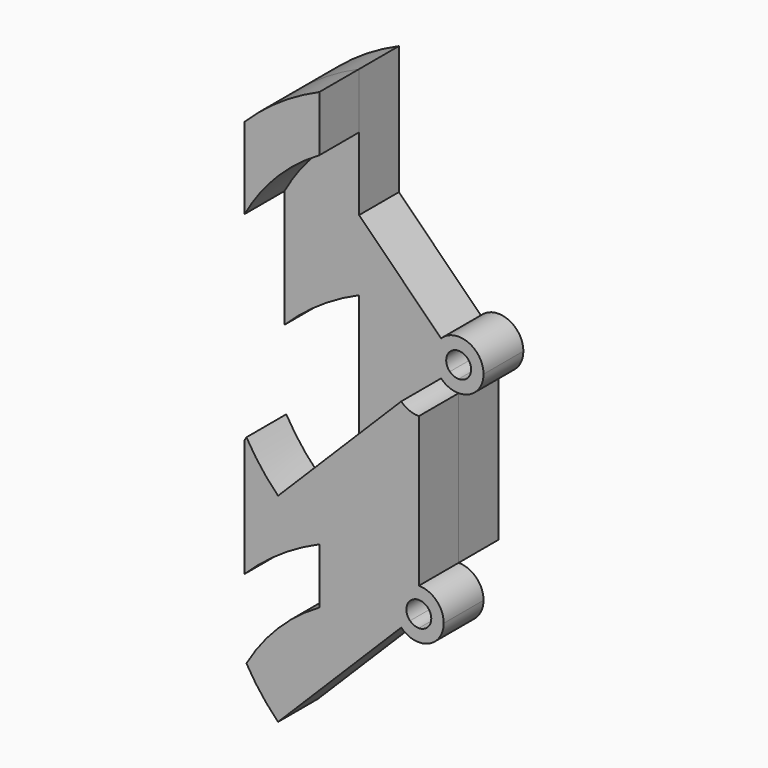
from build123d import *

# Parameters (mm, degrees)
F1_DEPTH = 12.7
F2_DEPTH = 12.7


with BuildPart() as f1:
    # F0 (on Front) → F1 (new body)
    with BuildSketch(Plane.XZ):
        with BuildLine():
            Line((-35.9210244843, -35.9210244843), (-25.4, -25.4))
            Line((-25.4, -25.4), (-25.4, -6.8059094878))
            ThreePointArc((-25.4, -6.8059094878), (-35.9210244843, -14.8789755157), (-43.9940905122, -25.4))
            ThreePointArc((-43.9940905122, -25.4), (-40.3023496868, -30.9250805936), (-35.9210244843, -35.9210244843))
        make_face()
        with BuildLine():
            ThreePointArc((-4.4901280605, -4.4901280605), (-6.35, 0), (-4.4901280605, 4.4901280605))
            Line((-4.4901280605, 4.4901280605), (-25.4, 25.4))
            Line((-25.4, 25.4), (-25.4, 7.3987113259))
            Line((-25.4, 7.3987113259), (-25.4, -6.8059094878))
            Line((-25.4, -6.8059094878), (-25.4, -25.4))
            Line((-25.4, -25.4), (-4.4901280605, -4.4901280605))
        make_face()
        with BuildLine():
            ThreePointArc((-4.4901280605, 4.4901280605), (-2.4300397955, 5.8666350314), (0, 6.35))
            Line((0, 6.35), (0, 44.45))
            ThreePointArc((0, 44.45), (-2.4300397955, 44.9333649686), (-4.4901280605, 46.3098719395))
            Line((-4.4901280605, 46.3098719395), (-25.4, 25.4))
            Line((-25.4, 25.4), (-4.4901280605, 4.4901280605))
        make_face()
        with BuildLine():
            Line((-25.4, 7.3987113259), (-25.4, 25.4))
            Line((-25.4, 25.4), (-35.9210244843, 14.8789755157))
            Line((-35.9210244843, 14.8789755157), (-44.45, 6.35))
            Line((-44.45, 6.35), (-44.45, -5.4519294788))
            ThreePointArc((-44.45, -5.4519294788), (-35.5111301886, 1.8422798967), (-25.4, 7.3987113259))
        make_face()
        with BuildLine():
            ThreePointArc((0, -6.35), (4.4901280605, -4.4901280605), (6.35, 0))
            ThreePointArc((6.35, 0), (4.4901280605, 4.4901280605), (0, 6.35))
            Line((0, 6.35), (0, 3.175))
            ThreePointArc((0, 3.175), (2.2450640303, 2.2450640303), (3.175, 0))
            ThreePointArc((3.175, 0), (2.2450640303, -2.2450640303), (0, -3.175))
            Line((0, -3.175), (0, -6.35))
        make_face()
        with BuildLine():
            Line((-2.2450640303, 2.2450640303), (-4.4901280605, 4.4901280605))
            ThreePointArc((-4.4901280605, 4.4901280605), (-6.35, 0), (-4.4901280605, -4.4901280605))
            Line((-4.4901280605, -4.4901280605), (-2.2450640303, -2.2450640303))
            ThreePointArc((-2.2450640303, -2.2450640303), (-3.175, 0), (-2.2450640303, 2.2450640303))
        make_face()
        with BuildLine():
            Line((0, 3.175), (0, 6.35))
            ThreePointArc((0, 6.35), (-2.4300397955, 5.8666350314), (-4.4901280605, 4.4901280605))
            Line((-4.4901280605, 4.4901280605), (-2.2450640303, 2.2450640303))
            ThreePointArc((-2.2450640303, 2.2450640303), (-1.2150198978, 2.9333175157), (0, 3.175))
        make_face()
        with BuildLine():
            ThreePointArc((-4.4901280605, -4.4901280605), (-2.4300397955, -5.8666350314), (0, -6.35))
            Line((0, -6.35), (0, -3.175))
            ThreePointArc((0, -3.175), (-1.2150198978, -2.9333175157), (-2.2450640303, -2.2450640303))
            Line((-2.2450640303, -2.2450640303), (-4.4901280605, -4.4901280605))
        make_face()
        with BuildLine():
            Line((-44.45, 6.35), (-35.9210244843, 14.8789755157))
            ThreePointArc((-35.9210244843, 14.8789755157), (-40.3023496868, 19.8749194064), (-43.9940905122, 25.4))
            ThreePointArc((-43.9940905122, 25.4), (-44.2238840411, 24.9977615062), (-44.45, 24.5934442484))
            Line((-44.45, 24.5934442484), (-44.45, 6.35))
        make_face()
    extrude(amount=F1_DEPTH)


with BuildPart() as f1b:
    # F0 (on Front) → F1, piece 2 (new body)
    with BuildSketch(Plane.XZ):
        with BuildLine():
            ThreePointArc((-44.45, 75.3934442484), (-40.5826799591, 81.3562773802), (-35.9210244843, 86.7210244843))
            ThreePointArc((-35.9210244843, 86.7210244843), (-30.9250805936, 91.1023496868), (-25.4, 94.7940905122))
            Line((-25.4, 94.7940905122), (-25.4, 108.9987113259))
            ThreePointArc((-25.4, 108.9987113259), (-35.5111301886, 103.4422798967), (-44.45, 96.1480705212))
            Line((-44.45, 96.1480705212), (-44.45, 75.3934442484))
        make_face()
    extrude(amount=F1_DEPTH)


with BuildPart() as f2:
    # F0 (on Front) → F2 (new body)
    with BuildSketch(Plane.XZ):
        with BuildLine():
            Line((-25.4, 43.9940905122), (-25.4, 25.4))
            Line((-25.4, 25.4), (-4.4901280605, 46.3098719395))
            ThreePointArc((-4.4901280605, 46.3098719395), (-6.35, 50.8), (-4.4901280605, 55.2901280605))
            Line((-4.4901280605, 55.2901280605), (-25.4, 76.2))
            Line((-25.4, 76.2), (-25.4, 58.1987113259))
            Line((-25.4, 58.1987113259), (-25.4, 43.9940905122))
        make_face()
        with BuildLine():
            ThreePointArc((-44.45, 45.3480705212), (-35.5111301886, 52.6422798967), (-25.4, 58.1987113259))
            Line((-25.4, 58.1987113259), (-25.4, 76.2))
            Line((-25.4, 76.2), (-35.9210244843, 86.7210244843))
            ThreePointArc((-35.9210244843, 86.7210244843), (-40.5826799591, 81.3562773802), (-44.45, 75.3934442484))
            Line((-44.45, 75.3934442484), (-44.45, 45.3480705212))
        make_face()
        with BuildLine():
            Line((-35.9210244843, 86.7210244843), (-25.4, 76.2))
            Line((-25.4, 76.2), (-25.4, 94.7940905122))
            ThreePointArc((-25.4, 94.7940905122), (-30.9250805936, 91.1023496868), (-35.9210244843, 86.7210244843))
        make_face()
        with BuildLine():
            ThreePointArc((-44.45, 75.3934442484), (-40.5826799591, 81.3562773802), (-35.9210244843, 86.7210244843))
            ThreePointArc((-35.9210244843, 86.7210244843), (-30.9250805936, 91.1023496868), (-25.4, 94.7940905122))
            Line((-25.4, 94.7940905122), (-25.4, 108.9987113259))
            ThreePointArc((-25.4, 108.9987113259), (-35.5111301886, 103.4422798967), (-44.45, 96.1480705212))
            Line((-44.45, 96.1480705212), (-44.45, 75.3934442484))
        make_face()
        with BuildLine():
            ThreePointArc((-4.4901280605, 55.2901280605), (-6.35, 50.8), (-4.4901280605, 46.3098719395))
            Line((-4.4901280605, 46.3098719395), (-2.2450640303, 48.5549359697))
            ThreePointArc((-2.2450640303, 48.5549359697), (-3.175, 50.8), (-2.2450640303, 53.0450640303))
            Line((-2.2450640303, 53.0450640303), (-4.4901280605, 55.2901280605))
        make_face()
        with BuildLine():
            Line((0, 47.625), (0, 44.45))
            ThreePointArc((0, 44.45), (4.4901280605, 46.3098719395), (6.35, 50.8))
            ThreePointArc((6.35, 50.8), (2.4300397955, 56.6666350314), (-4.4901280605, 55.2901280605))
            Line((-4.4901280605, 55.2901280605), (-2.2450640303, 53.0450640303))
            ThreePointArc((-2.2450640303, 53.0450640303), (1.2150198978, 53.7333175157), (3.175, 50.8))
            ThreePointArc((3.175, 50.8), (2.2450640303, 48.5549359697), (0, 47.625))
        make_face()
        with BuildLine():
            ThreePointArc((-4.4901280605, 46.3098719395), (-2.4300397955, 44.9333649686), (0, 44.45))
            Line((0, 44.45), (0, 47.625))
            ThreePointArc((0, 47.625), (-1.2150198978, 47.8666824843), (-2.2450640303, 48.5549359697))
            Line((-2.2450640303, 48.5549359697), (-4.4901280605, 46.3098719395))
        make_face()
        with BuildLine():
            ThreePointArc((-4.4901280605, 4.4901280605), (-2.4300397955, 5.8666350314), (0, 6.35))
            Line((0, 6.35), (0, 44.45))
            ThreePointArc((0, 44.45), (-2.4300397955, 44.9333649686), (-4.4901280605, 46.3098719395))
            Line((-4.4901280605, 46.3098719395), (-25.4, 25.4))
            Line((-25.4, 25.4), (-4.4901280605, 4.4901280605))
        make_face()
    extrude(amount=-F2_DEPTH)


solid = Compound([f1.part, f1b.part, f2.part])
